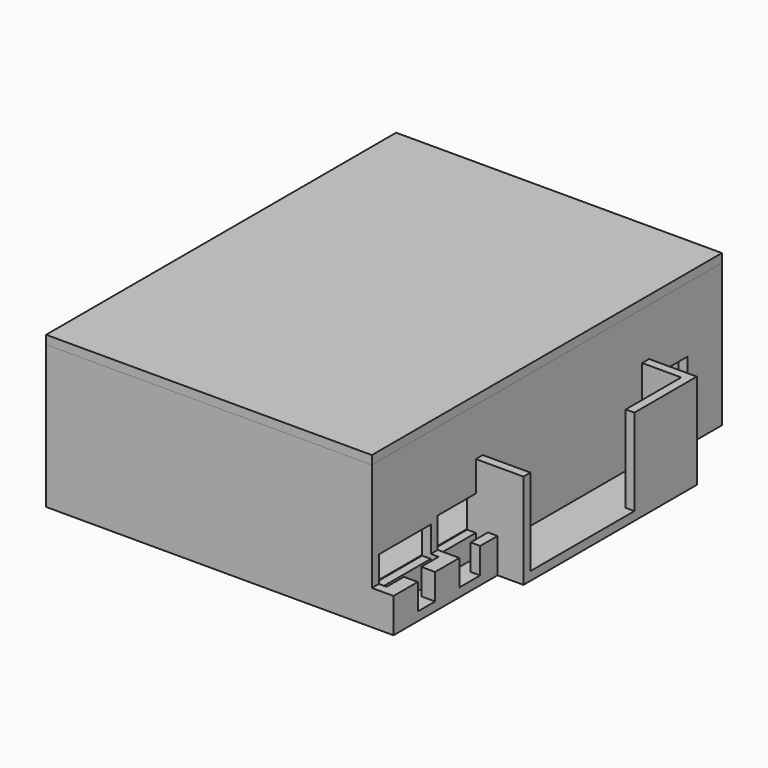
from build123d import *

# Parameters (mm, degrees)
SKETCH018_W     = 75.2
SKETCH018_H     = 101
PAD009_DEPTH    = 2
SKETCH019_W     = 61.2
SKETCH019_H     = 87
PAD010_DEPTH    = 1
SKETCH020_R     = 2.5
SKETCH020_W     = 15
SKETCH020_H     = 3
SKETCH020_W_2   = 7
SKETCH020_H_2   = 15
PAD011_DEPTH    = 5
SKETCH021_R     = 1.1
POCKET006_DEPTH = 7
SKETCH022_W     = 75.2
SKETCH022_H     = 101
SKETCH022_W_2   = 71.2
SKETCH022_H_2   = 97
PAD012_DEPTH    = 31
SKETCH023_W     = 5
SKETCH023_H     = 5
POCKET007_DEPTH = 2
SKETCH042_W     = 73.2
SKETCH042_H     = 99
POCKET_DEPTH    = 10
SKETCH043_W     = 48
SKETCH043_H     = 2
PAD021_DEPTH    = 11
PAD022_DEPTH    = 20
SKETCH045_W     = 2
SKETCH045_H     = 30
POCKET008_DEPTH = 20
SKETCH046_W     = 5
SKETCH046_H     = 15
POCKET009_DEPTH = 2
SKETCH047_W     = 32
SKETCH047_H     = 2
PAD023_DEPTH    = 5
SKETCH048_W     = 2
SKETCH048_H     = 2
PAD024_DEPTH    = 6
SKETCH049_W     = 11
SKETCH049_H     = 2
PAD025_DEPTH    = 20
PAD026_DEPTH    = 6
SKETCH051_W     = 2.2
SKETCH051_H     = 6
SKETCH051_W_2   = 3.2
SKETCH051_H_2   = 5
POCKET010_DEPTH = 6
SKETCH052_W     = 15
SKETCH052_H     = 7
SKETCH052_W_2   = 11
SKETCH052_H_2   = 8
POCKET011_DEPTH = 2
SKETCH_W        = 75.2
SKETCH_H        = 101
PAD_DEPTH       = 2
SKETCH041_W     = 73.2
SKETCH041_H     = 99
SKETCH041_W_2   = 71.2
SKETCH041_H_2   = 97
PAD020_DEPTH    = 10
CHAMFER_SIZE    = 0.9


with BuildPart() as box:
    # Sketch018 → Pad009 (new body)
    with BuildSketch(Plane.XY):
        Rectangle(SKETCH018_W, SKETCH018_H)
    extrude(amount=PAD009_DEPTH)

    # Sketch019 (on Face6 of Pad009) → Pad010 (join)
    with BuildSketch(Plane.XY.offset(2)):
        Rectangle(SKETCH019_W, SKETCH019_H)
    extrude(amount=PAD010_DEPTH)

    # Sketch020 (on Face11 of Pad010) → Pad011 (join)
    with BuildSketch(Plane.XY.offset(3)):
        with Locations((-25.2, 38.1)):
            Circle(SKETCH020_R)
        with Locations((23.9, 9.3)):
            Circle(SKETCH020_R)
        with Locations((-6, -39.1)):
            Circle(SKETCH020_R)
        with Locations((23.1, 42)):
            Rectangle(SKETCH020_W, SKETCH020_H)
        with Locations((23.1, 34)):
            Rectangle(SKETCH020_W, SKETCH020_H)
        with Locations((-5.1, 4)):
            Rectangle(SKETCH020_W_2, SKETCH020_H_2)
        Polygon((-30.6, -23.5), (-30.6, 31.5), (-10.6, 31.5), (-10.6, 24.5), (-25.6, 24.5), (-25.6, -23.5), align=None)
    extrude(amount=PAD011_DEPTH)

    # Sketch021 (on Face39 of Pad011) → Pocket006 (cut)
    with BuildSketch(Plane.XY.offset(8)):
        with Locations((-6, -39.1)):
            Circle(SKETCH021_R)
        with Locations((-25.2, 38.1)):
            Circle(SKETCH021_R)
        with Locations((23.9, 9.3)):
            Circle(SKETCH021_R)
    extrude(amount=-POCKET006_DEPTH, mode=Mode.SUBTRACT)

    # Sketch022 (on Face5 of Pocket006) → Pad012 (join)
    with BuildSketch(Plane.XY.offset(2)):
        Rectangle(SKETCH022_W, SKETCH022_H)
        Rectangle(SKETCH022_W_2, SKETCH022_H_2, mode=Mode.SUBTRACT)
    extrude(amount=PAD012_DEPTH)

    # Sketch023 (on Face8 of Pad012) → Pocket007 (cut)
    with BuildSketch(Plane.YZ.offset(37.6)):
        with Locations((38, 15.5)):
            Rectangle(SKETCH023_W, SKETCH023_H)
    extrude(amount=-POCKET007_DEPTH, mode=Mode.SUBTRACT)

    # Sketch042 (on Face9 of Pocket007) → Pocket (cut)
    with BuildSketch(Plane.XY.offset(33)):
        Rectangle(SKETCH042_W, SKETCH042_H)
    extrude(amount=-POCKET_DEPTH, mode=Mode.SUBTRACT)

    # Sketch043 (on Face8 of Pocket) → Pad021 (join)
    with BuildSketch(Plane.YZ.offset(37.6)):
        with Locations((5.5, 1)):
            Rectangle(SKETCH043_W, SKETCH043_H)
    extrude(amount=PAD021_DEPTH)

    # Sketch044 (on Face14 of Pad021) → Pad022 (join)
    with BuildSketch(Plane.XY.offset(2)):
        Polygon((37.6, 29.5), (48.6, 29.5), (48.6, -18.5), (46.6, -18.5), (46.6, 27.5), (37.6, 27.5), align=None)
    extrude(amount=PAD022_DEPTH)

    # Sketch045 (on Face16 of Pad022) → Pocket008 (cut)
    with BuildSketch(Plane.XY.offset(22)):
        with Locations((47.6, -3.5)):
            Rectangle(SKETCH045_W, SKETCH045_H)
    extrude(amount=-POCKET008_DEPTH, mode=Mode.SUBTRACT)

    # Sketch046 (on Face9 of Pocket008) → Pocket009 (cut)
    with BuildSketch(Plane.YZ.offset(37.6)):
        with Locations((-16, 9.5)):
            Rectangle(SKETCH046_W, SKETCH046_H)
    extrude(amount=-POCKET009_DEPTH, mode=Mode.SUBTRACT)

    # Sketch047 (on Face11 of Pocket009) → Pad023 (join)
    with BuildSketch(Plane.YZ.offset(37.6)):
        with Locations((-34.5, 1)):
            Rectangle(SKETCH047_W, SKETCH047_H)
    extrude(amount=PAD023_DEPTH)

    # Sketch048 (on Face29 of Pad023) → Pad024 (join)
    with BuildSketch(Plane.YZ.offset(42.6)):
        with Locations((-19.5, 1)):
            Rectangle(SKETCH048_W, SKETCH048_H)
    extrude(amount=PAD024_DEPTH)

    # Sketch049 (on Face23 of Pad024) → Pad025 (join)
    with BuildSketch(Plane.XY.offset(2)):
        with Locations((43.1, -19.5)):
            Rectangle(SKETCH049_W, SKETCH049_H)
    extrude(amount=PAD025_DEPTH)

    # Sketch050 (on Face25 of Pad025) → Pad026 (join)
    with BuildSketch(Plane.XY.offset(2)):
        Polygon((37.6, -50.5), (42.6, -50.5), (42.6, -20.5), (40.4, -20.5), (40.4, -31.5), (37.6, -31.5), (37.6, -33.5), (39.4, -33.5), (39.4, -48.5), (37.6, -48.5), align=None)
    extrude(amount=PAD026_DEPTH)

    # Sketch051 (on Face27 of Pad026) → Pocket010 (cut)
    with BuildSketch(Plane.XY.offset(8)):
        with Locations((41.5, -28.5)):
            Rectangle(SKETCH051_W, SKETCH051_H)
        with Locations((41, -41)):
            Rectangle(SKETCH051_W_2, SKETCH051_H_2)
    extrude(amount=-POCKET010_DEPTH, mode=Mode.SUBTRACT)

    # Sketch052 (on Face9 of Pocket010) → Pocket011 (cut)
    with BuildSketch(Plane.YZ.offset(37.6)):
        with Locations((-41, 10.5)):
            Rectangle(SKETCH052_W, SKETCH052_H)
        with Locations((-26, 11)):
            Rectangle(SKETCH052_W_2, SKETCH052_H_2)
    extrude(amount=-POCKET011_DEPTH, mode=Mode.SUBTRACT)


with BuildPart() as cup:
    # Sketch → Pad (new body)
    with BuildSketch(Plane.XY):
        Rectangle(SKETCH_W, SKETCH_H)
    extrude(amount=PAD_DEPTH)

    # Sketch041 (on Face5 of Pad) → Pad020 (join)
    with BuildSketch(Plane(origin=(0, 0, 0), x_dir=(1, 0, 0), z_dir=(0, 0, -1))):
        Rectangle(SKETCH041_W, SKETCH041_H)
        Rectangle(SKETCH041_W_2, SKETCH041_H_2, mode=Mode.SUBTRACT)
    extrude(amount=PAD020_DEPTH)

    # Chamfer
    chamfer_edges = [cup.edges().sort_by_distance(p)[0] for p in [
        (36.6, 0, -10),
        (0, -49.5, -10),
        (0, 49.5, -10),
        (-36.6, 0, -10),
    ]]
    chamfer(chamfer_edges, length=CHAMFER_SIZE)


with BuildPart() as cup_1:
    # Body placement: moved
    add(cup.part.moved(Location((0, 0, 33))))


solid = Compound([box.part, cup_1.part])
